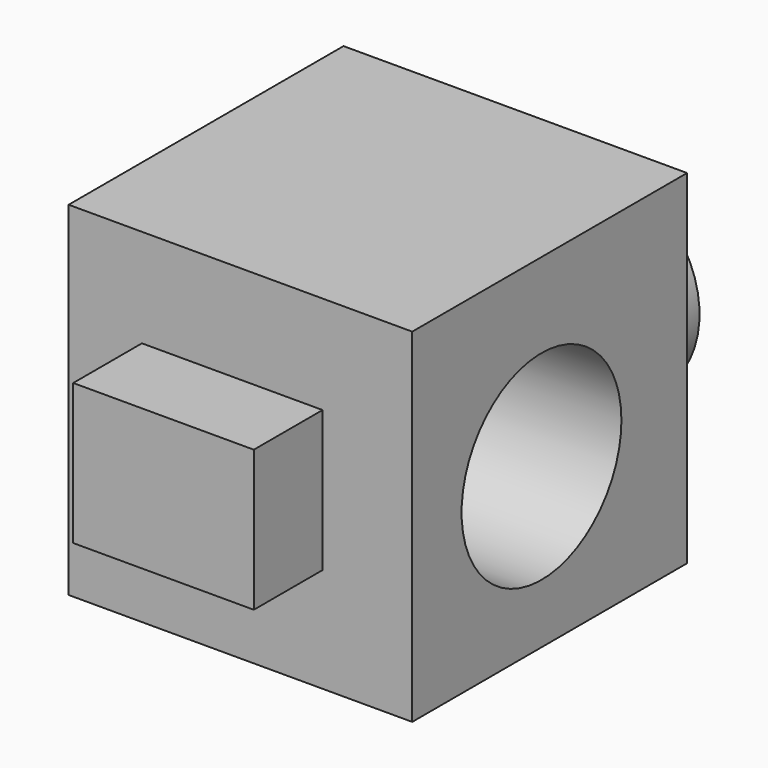
from build123d import *

# Parameters (mm, degrees)
F0_W     = 50.8
F0_H     = 50.8
F1_DEPTH = 50.8
F2_R     = 14.76935
F3_DEPTH = 50.8
F4_R     = 14.855001
F5_DEPTH = 12.7
F6_W     = 26.703719
F6_H     = 20.836989
F7_DEPTH = 12.7


with BuildPart() as f1:
    # F0 (on Front) → F1 (new body)
    with BuildSketch(Plane.XZ):
        with Locations((-30.750444, 29.979647)):
            Rectangle(F0_W, F0_H)
    extrude(amount=F1_DEPTH)

    # F2 (on face) → F3 (cut)
    with BuildSketch(Plane.YZ.offset(-5.350444)):
        with Locations((-26.906017, 28.119825)):
            Circle(F2_R)
    extrude(amount=-F3_DEPTH, mode=Mode.SUBTRACT)

    # F4 (on face) → F5 (join)
    with BuildSketch(Plane(origin=(0, 0, 0), x_dir=(-1, 0, 0), z_dir=(0, 1, 0))):
        with Locations((28.524423, 29.131327)):
            Circle(F4_R)
    extrude(amount=F5_DEPTH)

    # F6 (on face) → F7 (join)
    with BuildSketch(Plane.XZ.offset(50.8)):
        with Locations((-31.963541, 30.446282)):
            Rectangle(F6_W, F6_H)
    extrude(amount=F7_DEPTH)


solid = f1.part
